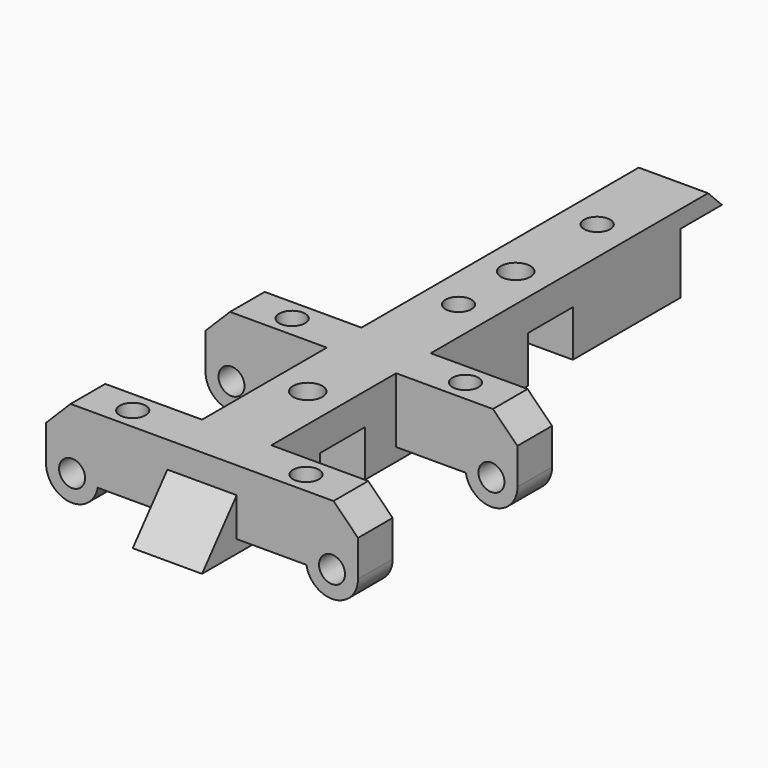
from build123d import *

# Parameters (mm, degrees)
SKETCH128_R  = 1.5
PAD102_DEPTH = 50
SKETCH126_R  = 1.7
PAD100_DEPTH = 50
SKETCH124_R  = 1.7
PAD098_DEPTH = 50
SKETCH127_R  = 1.5
PAD101_DEPTH = 20
PAD078_DEPTH = 4
SKETCH109_R  = 1.5
PAD082_DEPTH = 5
SKETCH106_R  = 1.5
PAD077_DEPTH = 5


with BuildPart() as topscrewcutouts:
    # Sketch128 → Pad102 (new body)
    with BuildSketch(Plane.XY):
        with Locations((0, 79)):
            Circle(SKETCH128_R)
        with Locations((-10, 47.5)):
            Circle(SKETCH128_R)
        with Locations((10, 47.5)):
            Circle(SKETCH128_R)
        with Locations((-10, 24.5)):
            Circle(SKETCH128_R)
        with Locations((10, 24.5)):
            Circle(SKETCH128_R)
        with Locations((0, 59)):
            Circle(SKETCH128_R)
    extrude(amount=PAD102_DEPTH)


with BuildPart() as screwcutout:
    # Sketch126 → Pad100 (new body)
    with BuildSketch(Plane(origin=(0, 70, 0), x_dir=(1, 0, 0), z_dir=(0, 0, 1))):
        with Locations((0, -2.75)):
            Circle(SKETCH126_R)
    extrude(amount=PAD100_DEPTH)


with BuildPart() as pad098:
    # Sketch124 → Pad098 (new body)
    with BuildSketch(Plane(origin=(0, 40, 0), x_dir=(1, 0, 0), z_dir=(0, 0, 1))):
        with Locations((0, -2.75)):
            Circle(SKETCH124_R)
    extrude(amount=PAD098_DEPTH)


with BuildPart() as cutouts:
    # Sketch127 → Pad101 (new body)
    with BuildSketch(Plane.XZ.offset(-74)):
        with Locations((0, 22)):
            Circle(SKETCH127_R)
    extrude(amount=-PAD101_DEPTH)

    # Fusion004020004: union ScrewCutout, Pad098
    add(screwcutout.part)
    add(pad098.part)


with BuildPart() as obj1:
    # Sketch102 → Pad078 (new body, symmetric)
    with BuildSketch(Plane.YZ):
        Polygon((17, 19), (27, 19), (27, 24.35), (30.5, 24.35), (30.5, 19), (34, 19), (34, 24.35), (40.5, 24.35), (40.5, 19), (50, 19), (50, 24.35), (53.5, 24.35), (53.5, 19), (64, 19), (64, 24.35), (70.5, 24.35), (70.5, 19), (86, 19), (86, 26), (92, 26), (90, 28), (24.551897, 28), align=None)
    extrude(amount=PAD078_DEPTH, both=True)


with BuildPart() as centermount:
    # Sketch109 → Pad082 (new body)
    with BuildSketch(Plane.XZ.offset(-50)):
        with BuildLine():
            Line((-12.04196, 20.5), (12.04196, 20.5))
            ThreePointArc((12.04196, 20.5), (15.250889, 18.010509), (18, 21.000021))
            Line((18, 25.171573), (18, 21.000021))
            Line((15.171573, 28), (18, 25.171573))
            Line((-15.171573, 28), (15.171573, 28))
            Line((-18, 25.171573), (-15.171573, 28))
            Line((-18, 21), (-18, 25.171573))
            ThreePointArc((-18, 21), (-15.250879, 18.010508), (-12.04196, 20.5))
        make_face()
        with Locations((15, 21)):
            Circle(SKETCH109_R, mode=Mode.SUBTRACT)
        with Locations((-15, 21)):
            Circle(SKETCH109_R, mode=Mode.SUBTRACT)
    extrude(amount=PAD082_DEPTH)


with BuildPart() as cut007019010:
    # Sketch106 → Pad077 (new body)
    with BuildSketch(Plane.XZ.offset(-27)):
        with BuildLine():
            Line((-12.04196, 20.5), (12.04196, 20.5))
            ThreePointArc((12.04196, 20.5), (15.250889, 18.010509), (18, 21.000021))
            Line((18, 25.171573), (18, 21.000021))
            Line((15.171573, 28), (18, 25.171573))
            Line((-15.171573, 28), (15.171573, 28))
            Line((-18, 25.171573), (-15.171573, 28))
            Line((-18, 21), (-18, 25.171573))
            ThreePointArc((-18, 21), (-15.250879, 18.010508), (-12.04196, 20.5))
        make_face()
        with Locations((15, 21)):
            Circle(SKETCH106_R, mode=Mode.SUBTRACT)
        with Locations((-15, 21)):
            Circle(SKETCH106_R, mode=Mode.SUBTRACT)
    extrude(amount=PAD077_DEPTH)

    # Fusion004020002: union obj1, CenterMount
    add(obj1.part)
    add(centermount.part)

    # Cut007019009: cut Cutouts
    add(cutouts.part, mode=Mode.SUBTRACT)

    # Cut007019010: cut TopScrewCutouts
    add(topscrewcutouts.part, mode=Mode.SUBTRACT)


solid = cut007019010.part
